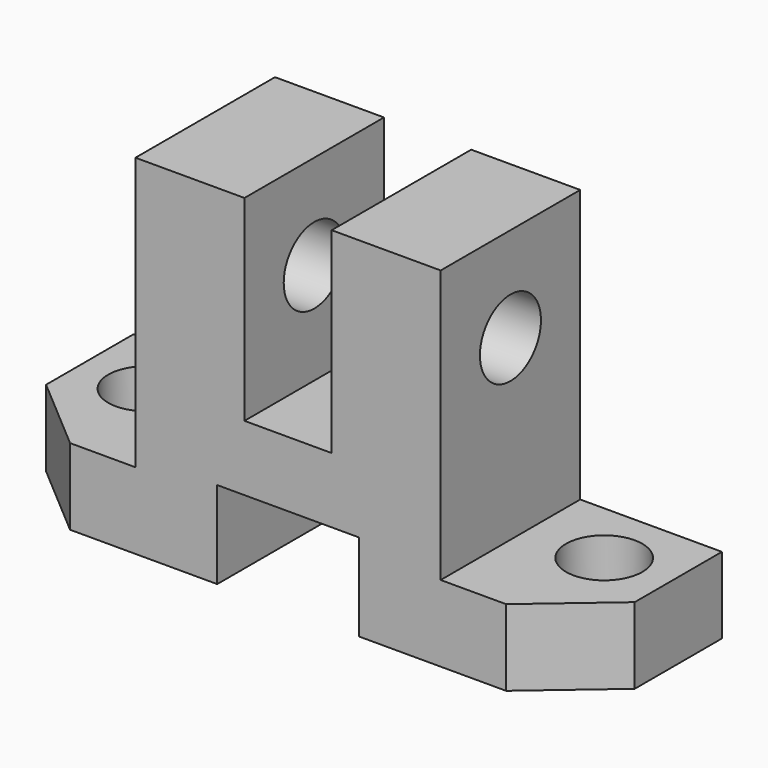
from build123d import *

# Parameters (mm, degrees)
PAD_DEPTH       = 32
SKETCH001_W     = 13
SKETCH001_H     = 16
POCKET_DEPTH    = 8
POCKET001_DEPTH = 25
POCKET002_DEPTH = 25
SKETCH004_W     = 8
SKETCH004_H     = 16
POCKET003_DEPTH = 18
SKETCH005_R     = 3.5
POCKET004_DEPTH = 8
SKETCH006_R     = 3.5
POCKET005_DEPTH = 30


with BuildPart() as part:
    # Sketch → Pad (new body)
    with BuildSketch(Plane.XY):
        Polygon((0, 0), (0, -10), (7, -16), (47, -16), (54, -10), (54, 0), align=None)
    extrude(amount=PAD_DEPTH)

    # Sketch001 (on Face7 of Pad) → Pocket (cut)
    with BuildSketch(Plane(origin=(0, 0, 0), x_dir=(1, 0, 0), z_dir=(0, 0, -1))):
        with Locations((27, 8)):
            Rectangle(SKETCH001_W, SKETCH001_H)
    extrude(amount=-POCKET_DEPTH, mode=Mode.SUBTRACT)

    # Sketch002 (on Face5 of Pocket) → Pocket001 (cut)
    with BuildSketch(Plane.XY.offset(32)):
        Polygon((0, 0), (0, -10), (7, -16), (13, -16), (13, 0), align=None)
    extrude(amount=-POCKET001_DEPTH, mode=Mode.SUBTRACT)

    # Sketch003 (on Face12 of Pocket001) → Pocket002 (cut)
    with BuildSketch(Plane.XY.offset(32)):
        Polygon((54, 0), (41, 0), (41, -16), (47, -16), (54, -10), align=None)
    extrude(amount=-POCKET002_DEPTH, mode=Mode.SUBTRACT)

    # Sketch004 (on Face12 of Pocket002) → Pocket003 (cut)
    with BuildSketch(Plane.XY.offset(32)):
        with Locations((27, -8)):
            Rectangle(SKETCH004_W, SKETCH004_H)
    extrude(amount=-POCKET003_DEPTH, mode=Mode.SUBTRACT)

    # Sketch005 (on Face4 of Pocket003) → Pocket004 (cut)
    with BuildSketch(Plane.XY.offset(7)):
        with Locations((6, -6)):
            Circle(SKETCH005_R)
        with Locations((48, -6)):
            Circle(SKETCH005_R)
    extrude(amount=-POCKET004_DEPTH, mode=Mode.SUBTRACT)

    # Sketch006 (on Face9 of Pocket004) → Pocket005 (cut)
    with BuildSketch(Plane(origin=(13, 0, 0), x_dir=(0, -1, 0), z_dir=(-1, 0, 0))):
        with Locations((8, 23.31)):
            Circle(SKETCH006_R)
    extrude(amount=-POCKET005_DEPTH, mode=Mode.SUBTRACT)


solid = part.part
